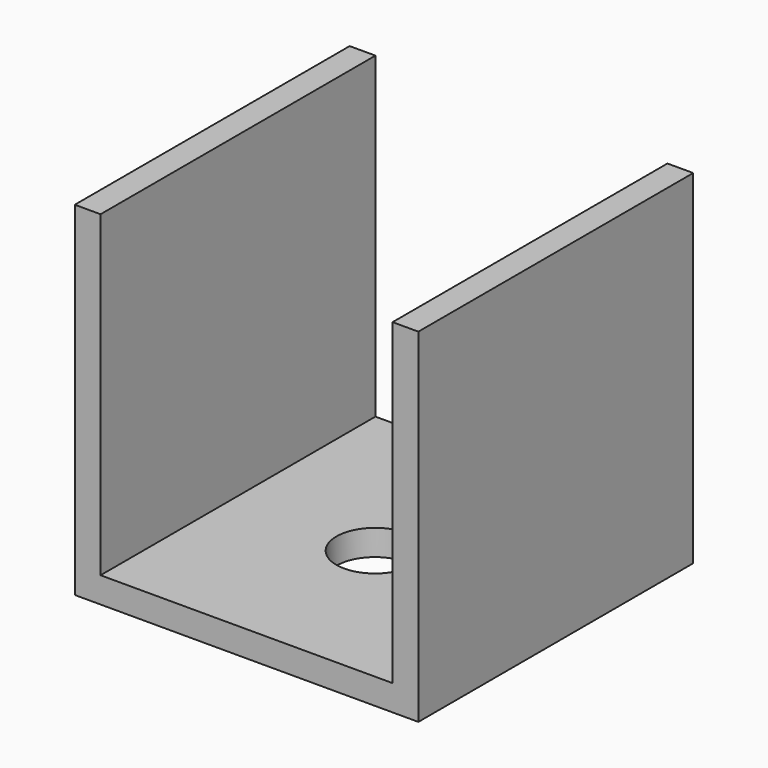
from build123d import *

# Parameters (mm, degrees)
F1_DEPTH = 40
F2_R     = 4.5
F3_DEPTH = 25


with BuildPart() as f1:
    # F0 (on Front) → F1 (new body)
    with BuildSketch(Plane.XZ):
        Polygon((-22.871286, 28.330525), (-22.871286, -11.669475), (17.128714, -11.669475), (17.128714, 28.330525), (14.128714, 28.330525), (14.128714, -8.669475), (-2.871286, -8.669475), (-19.871286, -8.669475), (-19.871286, 28.330525), align=None)
    extrude(amount=F1_DEPTH)

    # F2 (on face) → F3 (cut)
    with BuildSketch(Plane.XY.offset(-8.669475)):
        with Locations((-3.406711, -20.629912)):
            Circle(F2_R)
    extrude(amount=-F3_DEPTH, mode=Mode.SUBTRACT)


solid = f1.part
